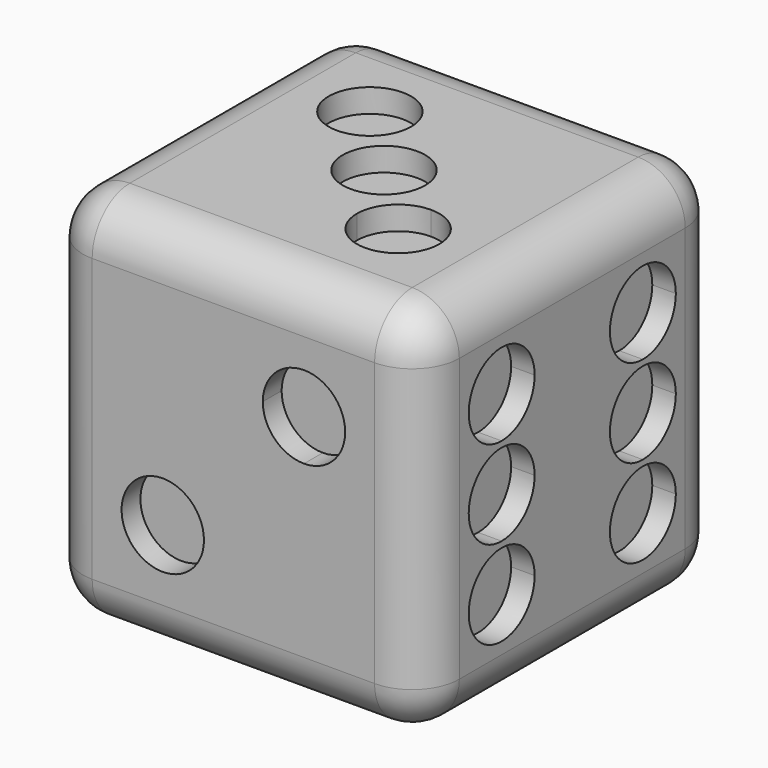
from build123d import *

# Parameters (mm, degrees)
F0_W      = 16
F0_H      = 16
F1_DEPTH  = 16
F2_R      = 2
F4_DEPTH  = 1
F5_R      = 1.75
F6_DEPTH  = 1
F8_DEPTH  = 1
F10_DEPTH = 1
F11_R     = 1.75
F12_DEPTH = 1
F14_DEPTH = 1


with BuildPart() as f1:
    # F0 (on Front) → F1 (new body)
    with BuildSketch(Plane.XZ):
        Rectangle(F0_W, F0_H)
    extrude(amount=F1_DEPTH)

    # F2
    f2_edges = [f1.edges().sort_by_distance(p)[0] for p in [
        (0, -16, 8),
        (-8, -8, 8),
        (8, -8, 8),
        (0, 0, 8),
        (0, 0, -8),
        (8, 0, 0),
        (-8, -8, -8),
        (-8, -16, 0),
        (-8, 0, 0),
        (0, -16, -8),
        (8, -16, 0),
        (8, -8, -8),
    ]]
    fillet(f2_edges, radius=F2_R)

    # F3 (on face) → F4 (cut)
    with BuildSketch(Plane.XZ.offset(16)):
        with BuildLine():
            Line((3, 1.25), (3, 3))
            Line((3, 3), (1.25, 3))
            ThreePointArc((1.25, 3), (1.7625631329, 1.7625631329), (3, 1.25))
        make_face()
        with BuildLine():
            Line((-3, -3), (-3, -1.25))
            ThreePointArc((-3, -1.25), (-4.2374368671, -4.2374368671), (-1.25, -3))
            Line((-1.25, -3), (-3, -3))
        make_face()
        with BuildLine():
            ThreePointArc((-1.25, -3), (-1.7625631329, -1.7625631329), (-3, -1.25))
            Line((-3, -1.25), (-3, -3))
            Line((-3, -3), (-1.25, -3))
        make_face()
        with BuildLine():
            Line((1.25, 3), (3, 3))
            Line((3, 3), (3, 1.25))
            ThreePointArc((3, 1.25), (4.2374368671, 1.7625631329), (4.75, 3))
            ThreePointArc((4.75, 3), (3, 4.75), (1.25, 3))
        make_face()
    extrude(amount=-F4_DEPTH, mode=Mode.SUBTRACT)

    # F5 (on face) → F6 (cut)
    with BuildSketch(Plane.XY.offset(8)):
        with BuildLine():
            Line((-3, -5), (-1.25, -5))
            ThreePointArc((-1.25, -5), (-4.2374368671, -3.7625631329), (-3, -6.75))
            Line((-3, -6.75), (-3, -5))
        make_face()
        with BuildLine():
            ThreePointArc((-3, -6.75), (-1.7625631329, -6.2374368671), (-1.25, -5))
            Line((-1.25, -5), (-3, -5))
            Line((-3, -5), (-3, -6.75))
        make_face()
        with BuildLine():
            Line((3, -11), (3, -9.25))
            ThreePointArc((3, -9.25), (1.7625631329, -9.7625631329), (1.25, -11))
            Line((1.25, -11), (3, -11))
        make_face()
        with BuildLine():
            ThreePointArc((4.75, -11), (4.2374368671, -9.7625631329), (3, -9.25))
            Line((3, -9.25), (3, -11))
            Line((3, -11), (1.25, -11))
            ThreePointArc((1.25, -11), (3, -12.75), (4.75, -11))
        make_face()
        with Locations((0, -8)):
            Circle(F5_R)
    extrude(amount=-F6_DEPTH, mode=Mode.SUBTRACT)

    # F7 (on face) → F8 (cut)
    with BuildSketch(Plane.YZ.offset(8)):
        with BuildLine():
            Line((-4.25, 3.75), (-6, 3.75))
            ThreePointArc((-6, 3.75), (-5.4874368671, 2.5125631329), (-4.25, 2))
            Line((-4.25, 2), (-4.25, 3.75))
        make_face()
        with BuildLine():
            ThreePointArc((-2.5, 3.75), (-4.25, 5.5), (-6, 3.75))
            Line((-6, 3.75), (-4.25, 3.75))
            Line((-4.25, 3.75), (-4.25, 2))
            ThreePointArc((-4.25, 2), (-3.0125631329, 2.5125631329), (-2.5, 3.75))
        make_face()
        with BuildLine():
            Line((-11.75, 3.75), (-10, 3.75))
            ThreePointArc((-10, 3.75), (-12.9874368671, 4.9874368671), (-11.75, 2))
            Line((-11.75, 2), (-11.75, 3.75))
        make_face()
        with BuildLine():
            ThreePointArc((-11.75, 2), (-10.5125631329, 2.5125631329), (-10, 3.75))
            Line((-10, 3.75), (-11.75, 3.75))
            Line((-11.75, 3.75), (-11.75, 2))
        make_face()
        with BuildLine():
            Line((-4.25, -3.75), (-4.25, -2))
            ThreePointArc((-4.25, -2), (-5.4874368671, -2.5125631329), (-6, -3.75))
            Line((-6, -3.75), (-4.25, -3.75))
        make_face()
        with BuildLine():
            ThreePointArc((-2.5, -3.75), (-3.0125631329, -2.5125631329), (-4.25, -2))
            Line((-4.25, -2), (-4.25, -3.75))
            Line((-4.25, -3.75), (-6, -3.75))
            ThreePointArc((-6, -3.75), (-4.25, -5.5), (-2.5, -3.75))
        make_face()
        with BuildLine():
            ThreePointArc((-10, -3.75), (-10.5125631329, -2.5125631329), (-11.75, -2))
            Line((-11.75, -2), (-11.75, -3.75))
            Line((-11.75, -3.75), (-10, -3.75))
        make_face()
        with BuildLine():
            Line((-11.75, -3.75), (-11.75, -2))
            ThreePointArc((-11.75, -2), (-12.9874368671, -4.9874368671), (-10, -3.75))
            Line((-10, -3.75), (-11.75, -3.75))
        make_face()
        with BuildLine():
            Line((-4.25, -1.75), (-4.25, 1.75))
            ThreePointArc((-4.25, 1.75), (-6, 0), (-4.25, -1.75))
        make_face()
        with BuildLine():
            ThreePointArc((-2.5, 0), (-3.0125631329, 1.2374368671), (-4.25, 1.75))
            Line((-4.25, 1.75), (-4.25, -1.75))
            ThreePointArc((-4.25, -1.75), (-3.0125631329, -1.2374368671), (-2.5, 0))
        make_face()
        with BuildLine():
            Line((-11.75, -1.75), (-11.75, 1.75))
            ThreePointArc((-11.75, 1.75), (-13.5, 0), (-11.75, -1.75))
        make_face()
        with BuildLine():
            ThreePointArc((-10, 0), (-10.5125631329, 1.2374368671), (-11.75, 1.75))
            Line((-11.75, 1.75), (-11.75, -1.75))
            ThreePointArc((-11.75, -1.75), (-10.5125631329, -1.2374368671), (-10, 0))
        make_face()
    extrude(amount=-F8_DEPTH, mode=Mode.SUBTRACT)

    # F9 (on face) → F10 (cut)
    with BuildSketch(Plane(origin=(0, 0, -8), x_dir=(1, 0, 0), z_dir=(0, 0, -1))):
        with BuildLine():
            Line((3, 11), (1.25, 11))
            ThreePointArc((1.25, 11), (1.7625631329, 9.7625631329), (3, 9.25))
            Line((3, 9.25), (3, 11))
        make_face()
        with BuildLine():
            ThreePointArc((4.75, 11), (3, 12.75), (1.25, 11))
            Line((1.25, 11), (3, 11))
            Line((3, 11), (3, 9.25))
            ThreePointArc((3, 9.25), (4.2374368671, 9.7625631329), (4.75, 11))
        make_face()
        with BuildLine():
            Line((-3, 11), (-1.25, 11))
            ThreePointArc((-1.25, 11), (-4.2374368671, 12.2374368671), (-3, 9.25))
            Line((-3, 9.25), (-3, 11))
        make_face()
        with BuildLine():
            ThreePointArc((-3, 9.25), (-1.7625631329, 9.7625631329), (-1.25, 11))
            Line((-1.25, 11), (-3, 11))
            Line((-3, 11), (-3, 9.25))
        make_face()
        with BuildLine():
            Line((3, 5), (3, 6.75))
            ThreePointArc((3, 6.75), (1.7625631329, 6.2374368671), (1.25, 5))
            Line((1.25, 5), (3, 5))
        make_face()
        with BuildLine():
            ThreePointArc((4.75, 5), (4.2374368671, 6.2374368671), (3, 6.75))
            Line((3, 6.75), (3, 5))
            Line((3, 5), (1.25, 5))
            ThreePointArc((1.25, 5), (3, 3.25), (4.75, 5))
        make_face()
        with BuildLine():
            ThreePointArc((-1.25, 5), (-1.7625631329, 6.2374368671), (-3, 6.75))
            Line((-3, 6.75), (-3, 5))
            Line((-3, 5), (-1.25, 5))
        make_face()
        with BuildLine():
            Line((-3, 5), (-3, 6.75))
            ThreePointArc((-3, 6.75), (-4.2374368671, 3.7625631329), (-1.25, 5))
            Line((-1.25, 5), (-3, 5))
        make_face()
    extrude(amount=-F10_DEPTH, mode=Mode.SUBTRACT)

    # F11 (on face) → F12 (cut)
    with BuildSketch(Plane(origin=(-8, 0, 0), x_dir=(0, -1, 0), z_dir=(-1, 0, 0))):
        with Locations((8, 0)):
            Circle(F11_R)
    extrude(amount=-F12_DEPTH, mode=Mode.SUBTRACT)

    # F13 (on face) → F14 (cut)
    with BuildSketch(Plane(origin=(0, 0, 0), x_dir=(-1, 0, 0), z_dir=(0, 1, 0))):
        with BuildLine():
            Line((3, 3), (1.25, 3))
            ThreePointArc((1.25, 3), (1.7625631329, 1.7625631329), (3, 1.25))
            Line((3, 1.25), (3, 3))
        make_face()
        with BuildLine():
            ThreePointArc((4.75, 3), (3, 4.75), (1.25, 3))
            Line((1.25, 3), (3, 3))
            Line((3, 3), (3, 1.25))
            ThreePointArc((3, 1.25), (4.2374368671, 1.7625631329), (4.75, 3))
        make_face()
        with BuildLine():
            Line((-3, 3), (-1.25, 3))
            ThreePointArc((-1.25, 3), (-4.2374368671, 4.2374368671), (-3, 1.25))
            Line((-3, 1.25), (-3, 3))
        make_face()
        with BuildLine():
            ThreePointArc((-3, 1.25), (-1.7625631329, 1.7625631329), (-1.25, 3))
            Line((-1.25, 3), (-3, 3))
            Line((-3, 3), (-3, 1.25))
        make_face()
        with BuildLine():
            Line((3, -3), (3, -1.25))
            ThreePointArc((3, -1.25), (1.7625631329, -1.7625631329), (1.25, -3))
            Line((1.25, -3), (3, -3))
        make_face()
        with BuildLine():
            ThreePointArc((4.75, -3), (4.2374368671, -1.7625631329), (3, -1.25))
            Line((3, -1.25), (3, -3))
            Line((3, -3), (1.25, -3))
            ThreePointArc((1.25, -3), (3, -4.75), (4.75, -3))
        make_face()
        with BuildLine():
            ThreePointArc((-1.25, -3), (-1.7625631329, -1.7625631329), (-3, -1.25))
            Line((-3, -1.25), (-3, -3))
            Line((-3, -3), (-1.25, -3))
        make_face()
        with BuildLine():
            Line((-3, -3), (-3, -1.25))
            ThreePointArc((-3, -1.25), (-4.2374368671, -4.2374368671), (-1.25, -3))
            Line((-1.25, -3), (-3, -3))
        make_face()
    extrude(amount=-F14_DEPTH, mode=Mode.SUBTRACT)


solid = f1.part
